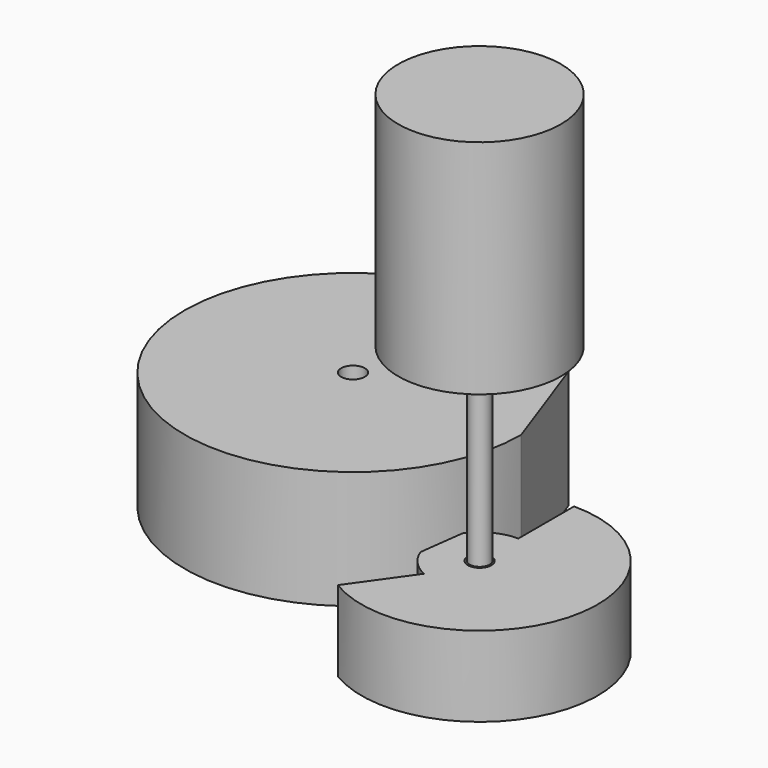
from build123d import *

# Parameters (mm, degrees)
F0_R     = 2.5
F1_DEPTH = 17
F2_R     = 2.1183628734
F3_DEPTH = 40
F4_R     = 17.2283151163
F4_R_2   = 2.1183628734
F5_DEPTH = 47
F6_R     = 1.5843133583
F7_DEPTH = 7.1394056178
F8_DEPTH = 25


with BuildPart() as f1:
    # F0 (on Top) → F1 (new body)
    with BuildSketch(Plane.XY):
        with BuildLine():
            Line((-4.3080339444, -9.3356588295), (-12.8947155097, -21.4178970005))
            ThreePointArc((-12.8947155097, -21.4178970005), (24.0878332879, -6.6915086112), (0, 25))
            Line((0, 25), (0, 10.2817159194))
            ThreePointArc((0, 10.2817159194), (-4.7143324855, 9.1372179279), (-8.3791234153, 5.9585210444))
            Line((-8.3791234153, 5.9585210444), (-9.6165060123, -3.6381993296))
            ThreePointArc((-9.6165060123, -3.6381993296), (-7.5225304545, -7.0089384223), (-4.3080339444, -9.3356588295))
        make_face()
        Circle(F0_R, mode=Mode.SUBTRACT)
    extrude(amount=F1_DEPTH)

    # F6 (on face) → F7 (cut, through all)
    with BuildSketch(Plane(origin=(-8.9978147138, 1.1601608574, 0), x_dir=(-0.1278794515, -0.9917897186, 0), z_dir=(-0.9917897186, 0.1278794515, 0))):
        with Locations((0, 8.1106387079)):
            Circle(F6_R)
    extrude(amount=-F7_DEPTH, mode=Mode.SUBTRACT)


with BuildPart() as f3:
    # F2 (on face) → F3 (new body)
    with BuildSketch(Plane.XY.offset(17)):
        Circle(F2_R)
    extrude(amount=F3_DEPTH)

    # F4 (on face) → F5 (join)
    with BuildSketch(Plane.XY.offset(57)):
        Circle(F4_R)
        Circle(F4_R_2, mode=Mode.SUBTRACT)
        Circle(F4_R_2)
    extrude(amount=F5_DEPTH)


with BuildPart() as f8:
    # F0 (on Top) → F8 (new body)
    with BuildSketch(Plane.XY):
        with BuildLine():
            Line((-13.2212148814, 27.5161545188), (-21.3183985313, 50.226792498))
            ThreePointArc((-21.3183985313, 50.226792498), (-82.4834983749, 15.6203768895), (-13.2212148814, 27.5161545188))
        make_face()
        with Locations((-48.8880313933, 27.5984052569)):
            Circle(F0_R, mode=Mode.SUBTRACT)
    extrude(amount=F8_DEPTH)


solid = Compound([f1.part, f3.part, f8.part])
